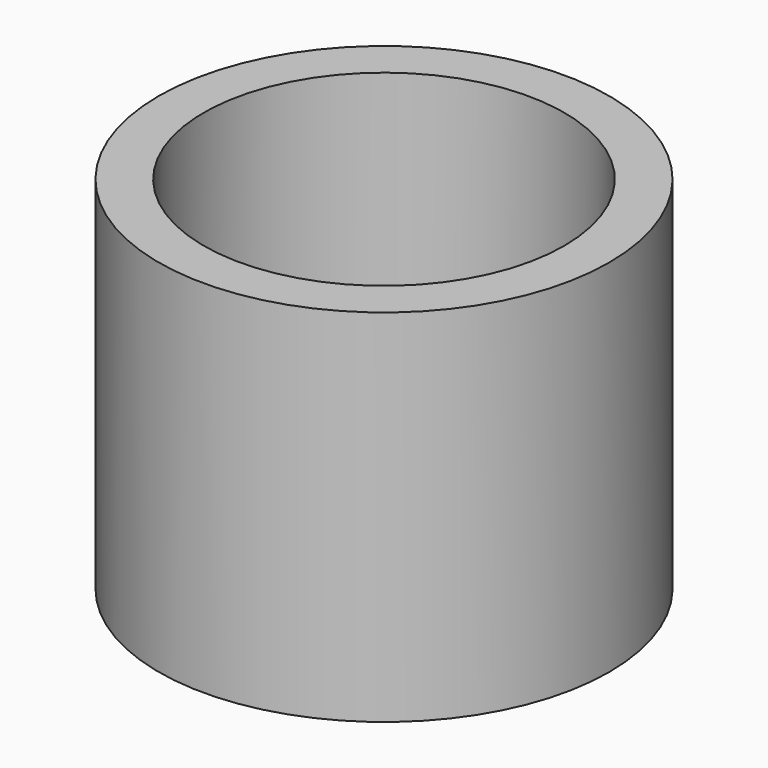
from build123d import *

# Parameters (mm, degrees)
CYLINDER001_R     = 40
CYLINDER001_DEPTH = 80
CYLINDER_R        = 50
CYLINDER_DEPTH    = 80


with BuildPart() as obj1:
    # Cylinder001 → Cylinder001 (new body)
    with BuildSketch(Plane.XY):
        Circle(CYLINDER001_R)
    extrude(amount=CYLINDER001_DEPTH)


with BuildPart() as cut:
    # Cylinder → Cylinder (new body)
    with BuildSketch(Plane.XY):
        Circle(CYLINDER_R)
    extrude(amount=CYLINDER_DEPTH)

    # Cut: cut obj1
    add(obj1.part, mode=Mode.SUBTRACT)


solid = cut.part
